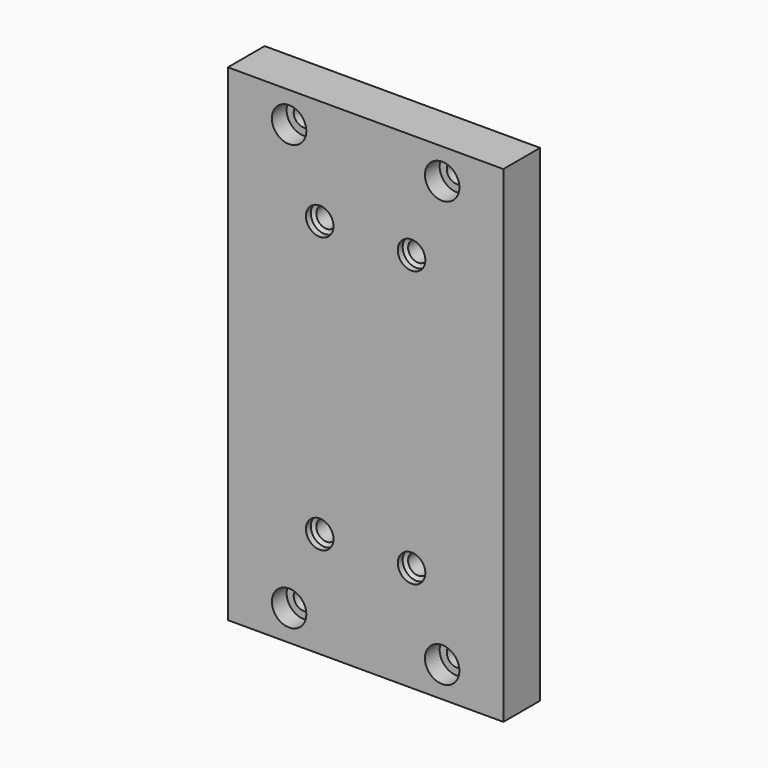
from build123d import *

# Parameters (mm, degrees)
F0_W           = 90
F0_H           = 159
F1_DEPTH       = 7.5
F3_D           = 6.6
F3_CBORE_D     = 11.25
F3_CBORE_DEPTH = 6
F5_D           = 6.6
F5_CBORE_D     = 11.25
F5_CBORE_DEPTH = 6
F7_D           = 9
F7_DEPTH       = 2
F7_TIP         = 2.7038727856


with BuildPart() as f1:
    # F0 (on Front) → F1 (new body, symmetric)
    with BuildSketch(Plane.XZ):
        Rectangle(F0_W, F0_H)
    extrude(amount=F1_DEPTH, both=True)

    # F3 (through all)
    with Locations(Plane.XZ.offset(7.5)):
        with Locations((-25, 69.5), (25, 69.5), (-25, -69.5), (25, -69.5)):
            CounterBoreHole(F3_D / 2, F3_CBORE_D / 2, F3_CBORE_DEPTH)

    # F5 (through all)
    with Locations(Plane(origin=(0, 7.5, 0), x_dir=(-1, 0, 0), z_dir=(0, 1, 0))):
        with Locations((-15, 45), (15, 45), (15, -45), (-15, -45)):
            CounterBoreHole(F5_D / 2, F5_CBORE_D / 2, F5_CBORE_DEPTH)

    # F7
    with Locations(Plane.XZ.offset(7.5)):
        with Locations((-15, 45), (15, 45), (-15, -45), (15, -45)):
            Hole(F7_D / 2, depth=F7_DEPTH)
            with Locations((0, 0, -(F7_DEPTH + F7_TIP / 2))):  # 118° drill point
                Cone(0, F7_D / 2, F7_TIP, mode=Mode.SUBTRACT)


solid = f1.part
